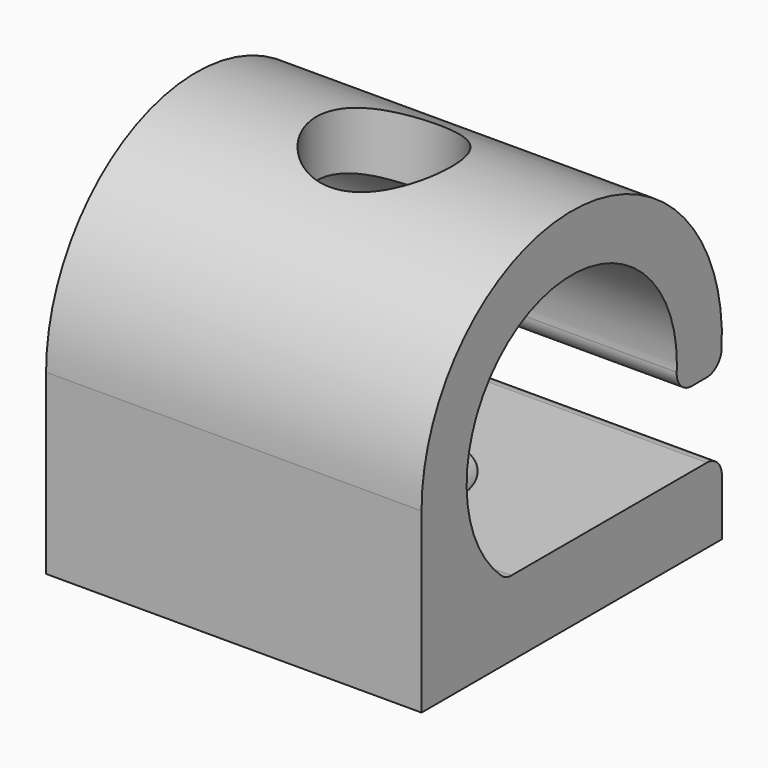
from build123d import *

# Parameters (mm, degrees)
F0_W      = 20
F0_H      = 20
F1_DEPTH  = 2
F3_DEPTH  = 10
F4_W      = 10
F4_H      = 4
F5_DEPTH  = 10
F6_R      = 1
F8_R      = 1.9
F9_DEPTH  = 25
F8_R_2    = 3.6
F10_DEPTH = 15
F11_SIZE  = 2


with BuildPart() as f1:
    # F0 (on Top) → F1 (new body, symmetric)
    with BuildSketch(Plane.XY):
        Rectangle(F0_W, F0_H)
    extrude(amount=F1_DEPTH, both=True)

    # F2 (on Right) → F3 (join, symmetric)
    with BuildSketch(Plane.YZ):
        with BuildLine():
            Line((0, 0), (6.6592096346, 0))
            ThreePointArc((6.6592096346, 0), (4.0870468344, 16.5868898597), (-10, 7.4602229888))
            Line((-10, 7.4602229888), (-10, 0))
            Line((-10, 0), (-6.6592096346, 0))
            Line((-6.6592096346, 0), (0, 0))
        make_face()
        with BuildLine():
            ThreePointArc((-4.3801786394, 2), (-3.0280975483, 13.7713738535), (7, 7.4602229888))
            ThreePointArc((7, 7.4602229888), (6.3111508648, 4.4321254404), (4.3801786394, 2))
            ThreePointArc((4.3801786394, 2), (0, 0.4602229888), (-4.3801786394, 2))
        make_face(mode=Mode.SUBTRACT)
    extrude(amount=F3_DEPTH, both=True)

    # F4 (on Right) → F5 (cut, symmetric)
    with BuildSketch(Plane.YZ):
        with Locations((7.6843140367, 4)):
            Rectangle(F4_W, F4_H)
    extrude(amount=F5_DEPTH, both=True, mode=Mode.SUBTRACT)

    # F6
    f6_edges = [f1.edges().sort_by_distance(p)[0] for p in [
        (0, 10, 2),
        (0, 9.892813, 6),
        (0, 6.846002, 6),
        (0, -4.380179, 2),
    ]]
    fillet(f6_edges, radius=F6_R)

    # F8 (on offset) → F9 (cut)
    with BuildSketch(Plane(origin=(0, 0, 20.2), x_dir=(1, 0, 0), z_dir=(0, 0, -1))):
        Circle(F8_R)
    extrude(amount=F9_DEPTH, mode=Mode.SUBTRACT)

    # F8 (on offset) → F10 (cut)
    with BuildSketch(Plane(origin=(0, 0, 20.2), x_dir=(1, 0, 0), z_dir=(0, 0, -1))):
        Circle(F8_R_2)
        Circle(F8_R, mode=Mode.SUBTRACT)
    extrude(amount=F10_DEPTH, mode=Mode.SUBTRACT)

    # F11
    f11_edges = [f1.edges().sort_by_distance(p)[0] for p in [
        (-1.9, 0, 2),
    ]]
    chamfer(f11_edges, length=F11_SIZE)


solid = f1.part
